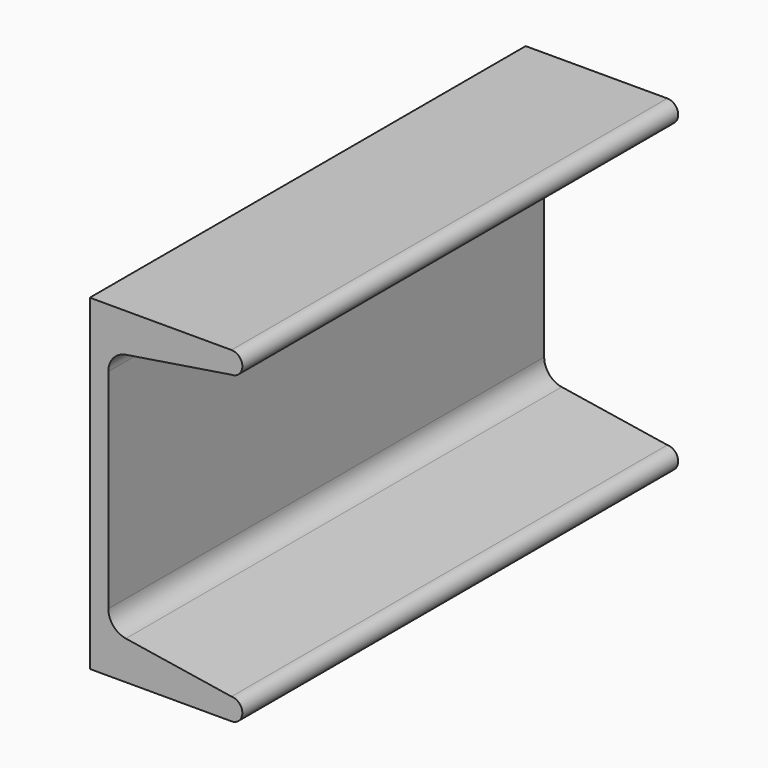
from build123d import *

# Parameters (mm, degrees)
F1_DEPTH = 63.5


with BuildPart() as f1:
    # F0 (on Front) → F1 (new body, symmetric)
    with BuildSketch(Plane.XZ):
        with BuildLine():
            Line((0, 38.1), (0, 0))
            Line((0, 0), (0, -38.1))
            Line((0, -38.1), (33.02, -38.1))
            ThreePointArc((33.02, -38.1), (35.56, -35.56), (33.02, -33.02))
            Line((33.02, -33.02), (8.410474, -29.122234))
            ThreePointArc((8.410474, -29.122234), (5.480366, -27.481295), (4.318, -24.330563))
            Line((4.318, -24.330563), (4.318, 0))
            Line((4.318, 0), (4.318, 24.330563))
            ThreePointArc((4.318, 24.330563), (5.480366, 27.481295), (8.410474, 29.122234))
            Line((8.410474, 29.122234), (33.02, 33.02))
            ThreePointArc((33.02, 33.02), (35.56, 35.56), (33.02, 38.1))
            Line((33.02, 38.1), (0, 38.1))
        make_face()
    extrude(amount=F1_DEPTH, both=True)


solid = f1.part
